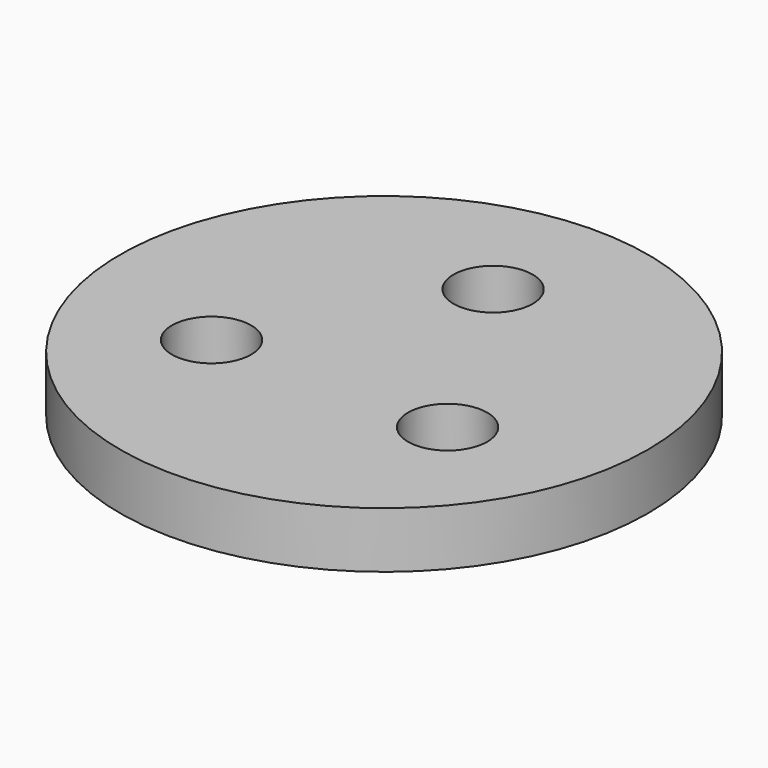
from build123d import *

# Parameters (mm, degrees)
F0_R     = 50.8
F1_DEPTH = 10.795
F2_R     = 7.62
F3_DEPTH = 10.796


with BuildPart() as f1:
    # F0 (on Top) → F1 (new body)
    with BuildSketch(Plane.XY):
        Circle(F0_R)
    extrude(amount=F1_DEPTH)

    # F2 (on face) → F3 (cut, through all)
    with BuildSketch(Plane.XY.offset(10.795)):
        with Locations((-22.715701, -13.114916)):
            Circle(F2_R)
        with Locations((0, 26.229832)):
            Circle(F2_R)
        with Locations((22.715701, -13.114916)):
            Circle(F2_R)
    extrude(amount=-F3_DEPTH, mode=Mode.SUBTRACT)


solid = f1.part
